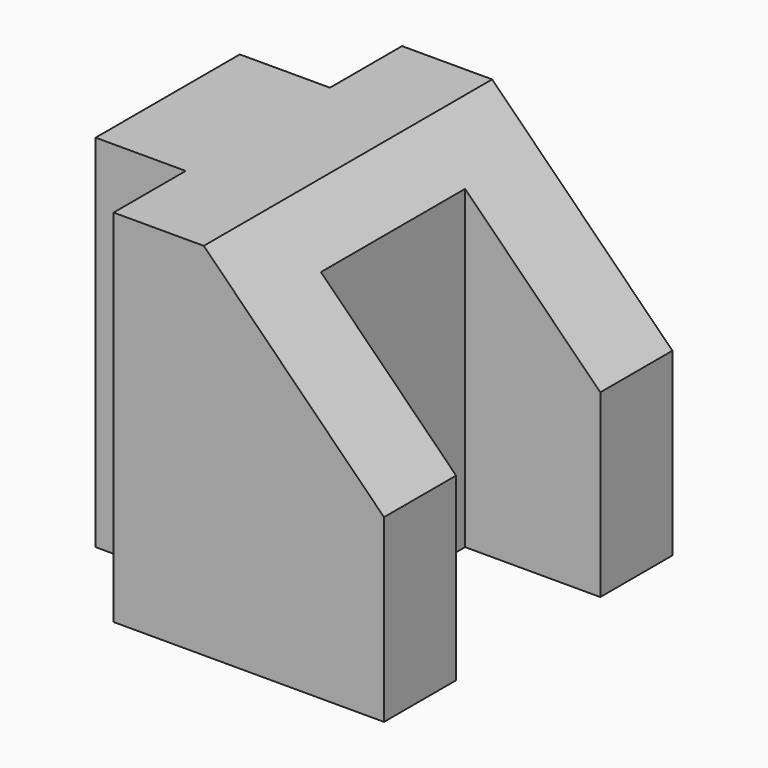
from build123d import *

# Parameters (mm, degrees)
F0_W     = 50.8
F0_H     = 50.8
F1_DEPTH = 50.8
F2_W     = 19.05
F2_H     = 25.4
F2_W_2   = 12.7
F2_H_2   = 12.7
F3_DEPTH = 50.801
F5_DEPTH = 50.801


with BuildPart() as f1:
    # F0 (on Top) → F1 (new body)
    with BuildSketch(Plane.XY):
        with Locations((25.4, 25.4)):
            Rectangle(F0_W, F0_H)
    extrude(amount=-F1_DEPTH)

    # F2 (on Top) → F3 (cut, through all)
    with BuildSketch(Plane.XY):
        with Locations((41.275, 25.4)):
            Rectangle(F2_W, F2_H)
        with Locations((6.35, 6.35)):
            Rectangle(F2_W_2, F2_H_2)
        with Locations((6.35, 44.45)):
            Rectangle(F2_W_2, F2_H_2)
    extrude(amount=-F3_DEPTH, mode=Mode.SUBTRACT)

    # F4 (on Front) → F5 (cut, through all)
    with BuildSketch(Plane.XZ):
        Polygon((50.8, -25.4), (50.8, 0), (25.4, 0), align=None)
    extrude(amount=-F5_DEPTH, mode=Mode.SUBTRACT)


solid = f1.part
